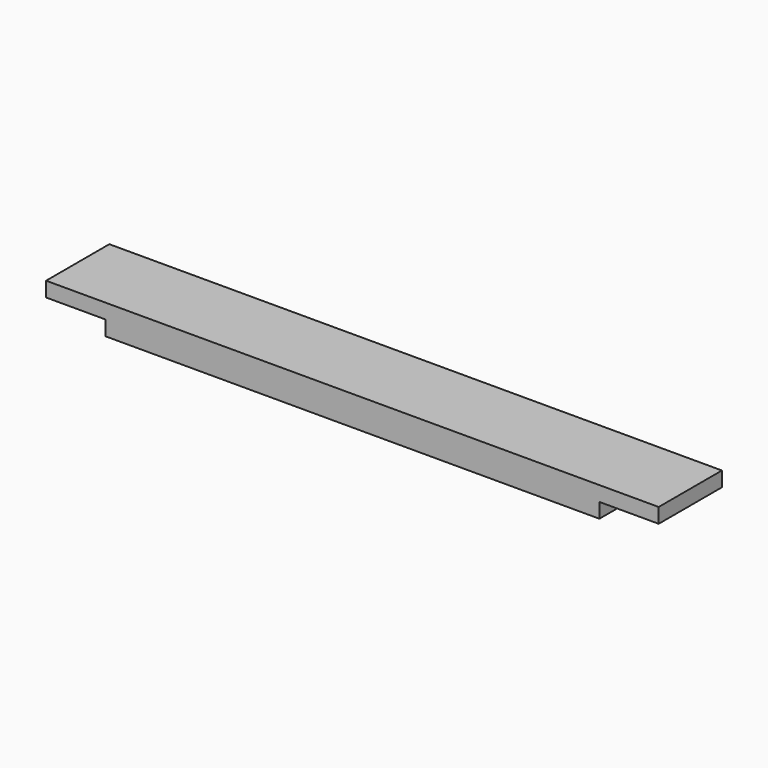
from build123d import *

# Parameters (mm, degrees)
F0_W     = 393.7
F0_H     = 50.8
F1_DEPTH = 9.525
F2_W     = 38.1
F2_H     = 50.8
F3_DEPTH = 9.526


with BuildPart() as f1:
    # F0 (on Top) → F1 (new body, symmetric)
    with BuildSketch(Plane.XY):
        Rectangle(F0_W, F0_H)
    extrude(amount=F1_DEPTH, both=True)

    # F2 (on Top) → F3 (cut, through all)
    with BuildSketch(Plane.XY):
        with Locations((-177.8, 0)):
            Rectangle(F2_W, F2_H)
        with Locations((177.8, 0)):
            Rectangle(F2_W, F2_H)
    extrude(amount=-F3_DEPTH, mode=Mode.SUBTRACT)


solid = f1.part
